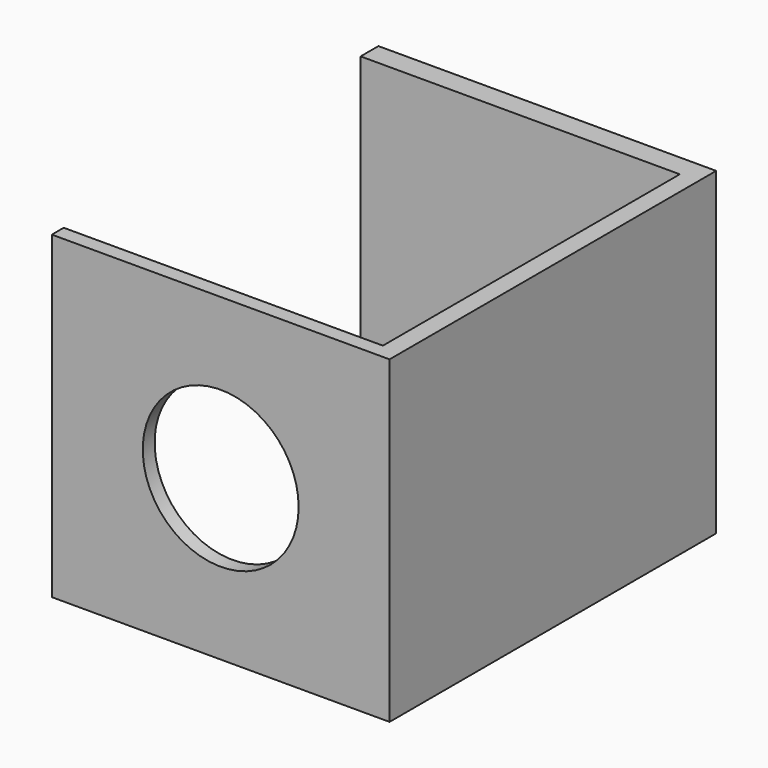
from build123d import *

# Parameters (mm, degrees)
F1_DEPTH = 43
F2_R     = 10.5
F3_DEPTH = 2
F4_R     = 15.75
F5_DEPTH = 2


with BuildPart() as f1:
    # F0 (on Top) → F1 (new body)
    with BuildSketch(Plane.XY):
        Polygon((30.363204, 32.528415), (-15.136796, 32.528415), (-15.136796, 29.528415), (27.863204, 29.528415), (27.863204, -20.471585), (-15.136796, -20.471585), (-15.136796, -22.471585), (30.363204, -22.471585), align=None)
    extrude(amount=F1_DEPTH)

    # F2 (on face) → F3 (cut, through all)
    with BuildSketch(Plane.XZ.offset(22.471585)):
        with Locations((7.613204, 21.5)):
            Circle(F2_R)
    extrude(amount=-F3_DEPTH, mode=Mode.SUBTRACT)

    # F4 (on face) → F5 (cut)
    with BuildSketch(Plane(origin=(0, 32.528415, 0), x_dir=(-1, 0, 0), z_dir=(0, 1, 0))):
        with Locations((-7.613204, 21.5)):
            Circle(F4_R)
    extrude(amount=-F5_DEPTH, mode=Mode.SUBTRACT)


solid = f1.part
